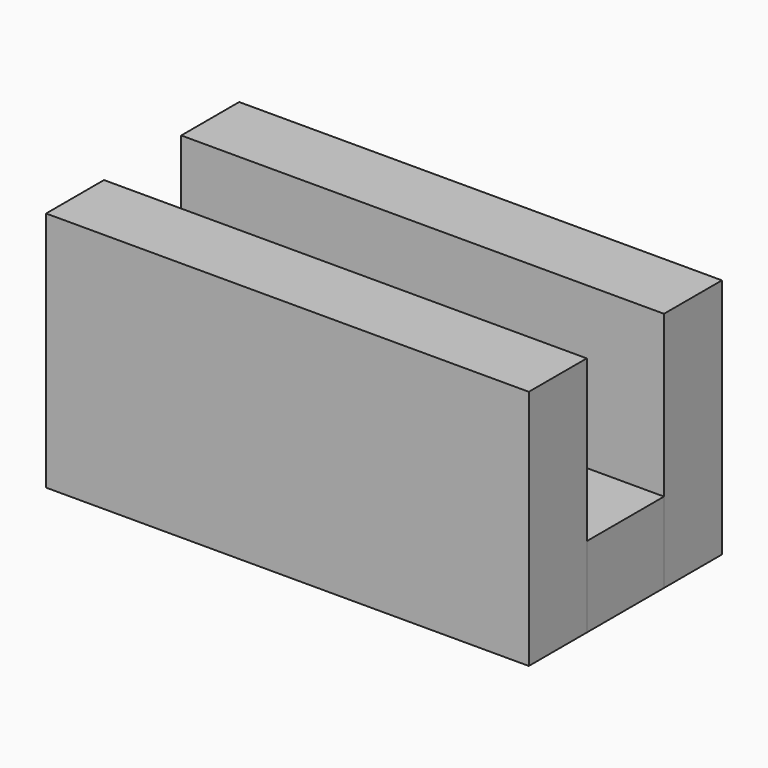
from build123d import *

# Parameters (mm, degrees)
F0_W     = 30
F0_H     = 4.5
F1_DEPTH = 15
F0_H_2   = 6
F2_DEPTH = 5


with BuildPart() as f1:
    # F0 (on Top) → F1 (new body)
    with BuildSketch(Plane.XY):
        with Locations((0, 5.25)):
            Rectangle(F0_W, F0_H)
        with Locations((0, -5.25)):
            Rectangle(F0_W, F0_H)
    extrude(amount=F1_DEPTH)


with BuildPart() as f2:
    # F0 (on Top) → F2 (new body)
    with BuildSketch(Plane.XY):
        Rectangle(F0_W, F0_H_2)
    extrude(amount=F2_DEPTH)


solid = Compound([f1.part, f2.part])
